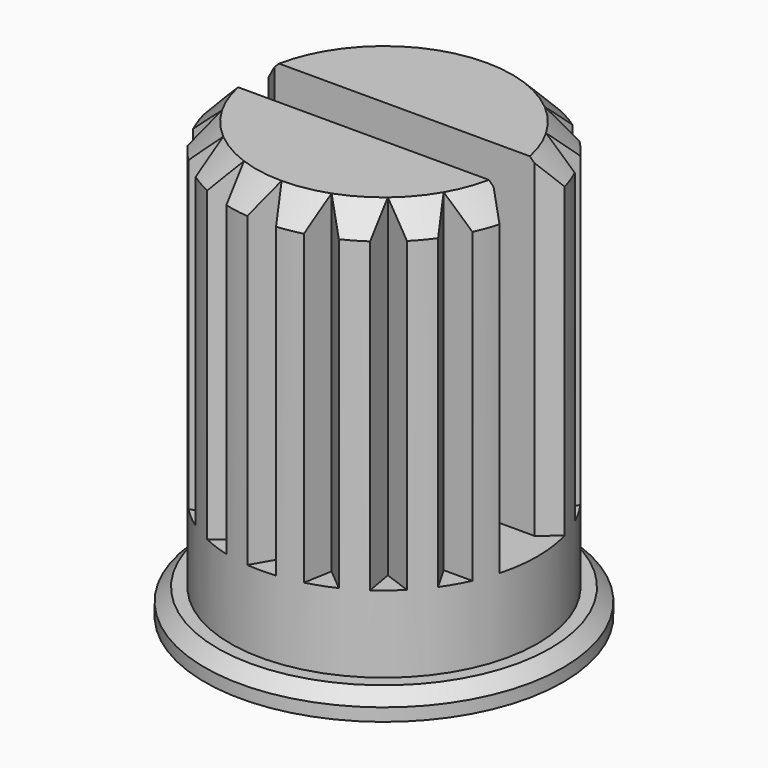
from build123d import *

# Parameters (mm, degrees)
SKETCH009_R           = 3.5
PAD006_DEPTH          = 0.5
CHAMFER001_SIZE       = 0.25
SKETCH010_R           = 3
PAD007_DEPTH          = 8
CHAMFER002_SIZE       = 0.5
POCKET002_DEPTH       = 6.5
POLARPATTERN002_COUNT = 18
SKETCH012_W           = 6.5
SKETCH012_H           = 1
POCKET003_DEPTH       = 6.5


with BuildPart() as part:
    # Sketch009 → Pad006 (new body)
    with BuildSketch(Plane.XY.offset(18.5)):
        Circle(SKETCH009_R)
    extrude(amount=PAD006_DEPTH)

    # Chamfer001
    chamfer001_edges = [part.edges().sort_by_distance(p)[0] for p in [
        (-3.5, 0, 19),
    ]]
    chamfer(chamfer001_edges, length=CHAMFER001_SIZE)

    # Sketch010 (on Face4 of Chamfer001) → Pad007 (join)
    with BuildSketch(Plane.XY.offset(19)):
        Circle(SKETCH010_R)
    extrude(amount=PAD007_DEPTH)

    # Chamfer002
    chamfer002_edges = [part.edges().sort_by_distance(p)[0] for p in [
        (-3, 0, 27),
    ]]
    chamfer(chamfer002_edges, length=CHAMFER002_SIZE)

    # Sketch011 (on Face6 of Pad007) → Pocket002 (cut)
    with BuildSketch(Plane.XY.offset(27)):
        Polygon((0, 2.5), (0.433013, 3.25), (-0.433013, 3.25), align=None)
    pocket002 = extrude(amount=-POCKET002_DEPTH, mode=Mode.SUBTRACT)

    # PolarPattern002: Pocket002 ×18 about axis
    polarpattern002_axis = Axis((0, 0, 27), (0, 0, 1))
    for i in range(1, POLARPATTERN002_COUNT):
        add(pocket002.rotate(polarpattern002_axis, i * 360 / POLARPATTERN002_COUNT), mode=Mode.SUBTRACT)

    # Sketch012 (on Face76 of PolarPattern002) → Pocket003 (cut)
    with BuildSketch(Plane.XY.offset(27)):
        Rectangle(SKETCH012_W, SKETCH012_H)
    extrude(amount=-POCKET003_DEPTH, mode=Mode.SUBTRACT)


solid = part.part
